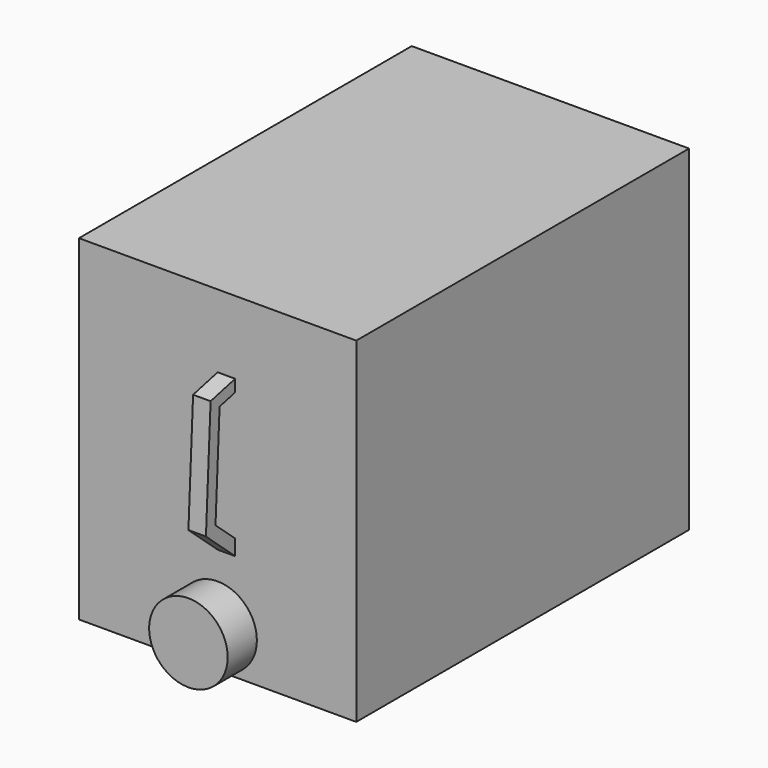
from build123d import *

# Parameters (mm, degrees)
F0_W     = 190
F0_H     = 285
F1_DEPTH = 230
F2_R     = 26.9
F3_DEPTH = 25
F5_DEPTH = 12


with BuildPart() as f1:
    # F0 (on Top) → F1 (new body)
    with BuildSketch(Plane.XY):
        Rectangle(F0_W, F0_H)
    extrude(amount=F1_DEPTH)

    # F2 (on face) → F3 (join)
    with BuildSketch(Plane.XZ.offset(142.5)):
        with Locations((0, 27)):
            Circle(F2_R)
    extrude(amount=F3_DEPTH)

    # F4 (on Right) → F5 (join)
    with BuildSketch(Plane.YZ):
        Polygon((-142.5, 171.776368), (-142.5, 180), (-163.5, 175), (-167.5, 95), (-142.5, 73), (-142.5, 83.656529), (-159.317222, 98.455684), (-155.809636, 168.607407), align=None)
    extrude(amount=F5_DEPTH)


solid = f1.part
